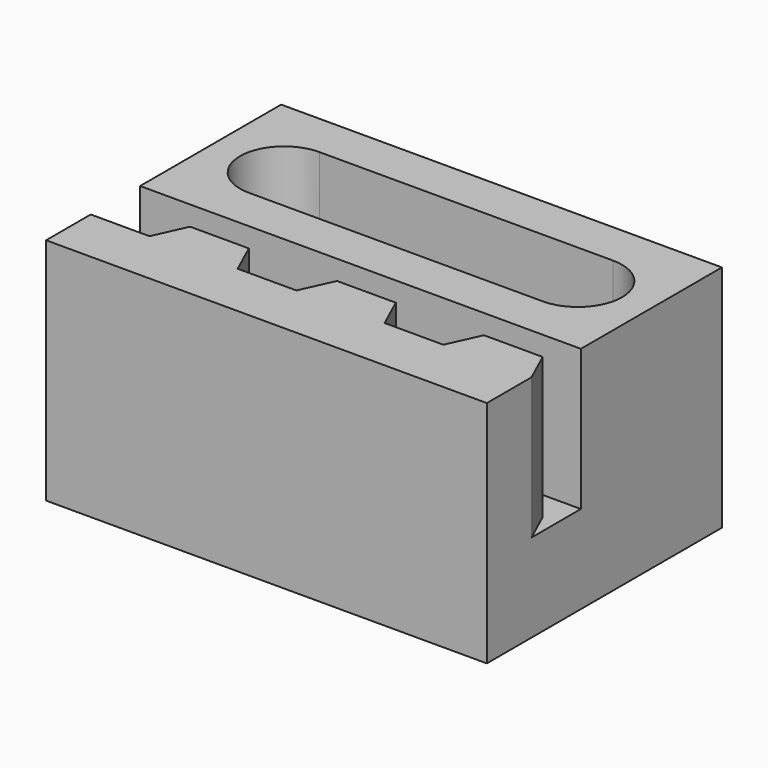
from build123d import *

# Parameters (mm, degrees)
F0_W     = 15
F0_H     = 10
F1_DEPTH = 3
F2_W     = 15
F2_H     = 6
F3_DEPTH = 4.8
F5_DEPTH = 7.801


with BuildPart() as f1:
    # F0 (on Top) → F1 (new body)
    with BuildSketch(Plane.XY):
        Rectangle(F0_W, F0_H)
    extrude(amount=F1_DEPTH)

    # F2 (on face) → F3 (join)
    with BuildSketch(Plane.XY.offset(3)):
        Polygon((2, -2), (0, -2), (-0.5, -3.1), (-2.5, -3.1), (-3, -2), (-5, -2), (-5.5, -3.1), (-7.5, -3.1), (-7.5, -5), (7.5, -5), (7.5, -3.1), (7, -2), (5, -2), (4.5, -3.1), (2.5, -3.1), align=None)
        with Locations((0, 2)):
            Rectangle(F2_W, F2_H)
    extrude(amount=F3_DEPTH)

    # F4 (on face) → F5 (cut, through all)
    with BuildSketch(Plane.XY.offset(7.8)):
        with BuildLine():
            Line((5, 3.5), (-5, 3.5))
            ThreePointArc((-5, 3.5), (-6.5, 2), (-5, 0.5))
            Line((-5, 0.5), (5, 0.5))
            ThreePointArc((5, 0.5), (6.5, 2), (5, 3.5))
        make_face()
    extrude(amount=-F5_DEPTH, mode=Mode.SUBTRACT)


solid = f1.part
